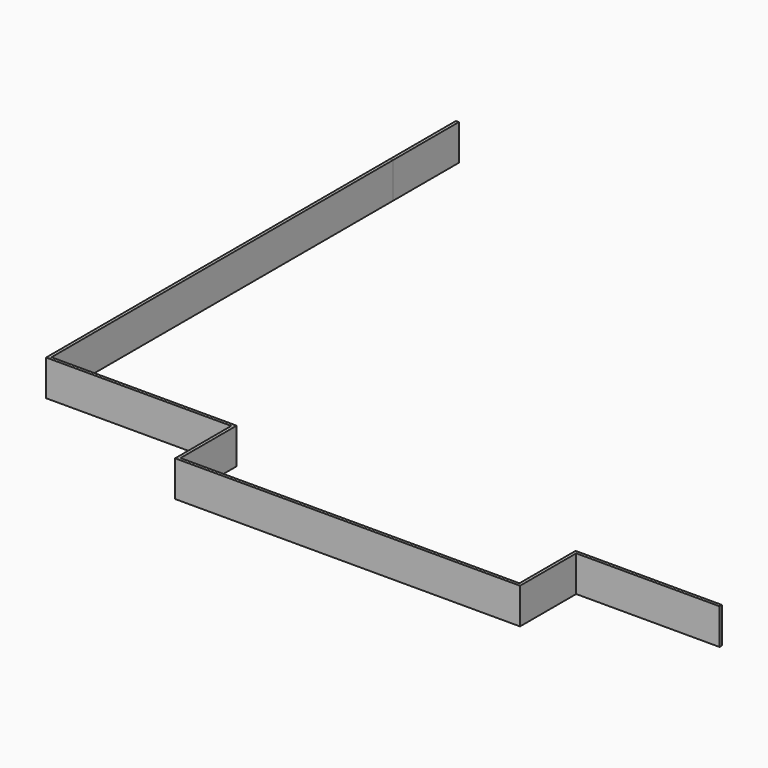
from build123d import *

# Parameters (mm, degrees)
F1_DEPTH  = 304.8
F3_DEPTH  = 304.8
F5_DEPTH  = 304.8
F7_DEPTH  = 304.8
F9_DEPTH  = 304.8
F11_DEPTH = 304.8
F12_W     = 25.4
F12_H     = 698.5
F13_DEPTH = 304.8


with BuildPart() as f1:
    # F0 (on Top) → F1 (new body)
    with BuildSketch(Plane.XY):
        Polygon((0, 3657.6), (0, 0), (25.4, 25.4), (25.4, 3657.6), align=None)
    extrude(amount=F1_DEPTH)


with BuildPart() as f3:
    # F2 (on Top) → F3 (new body)
    with BuildSketch(Plane.XY):
        Polygon((25.4, 25.4), (0, 0), (1574.8, 0), (1600.2, 25.4), align=None)
    extrude(amount=F3_DEPTH)


with BuildPart() as f5:
    # F4 (on Top) → F5 (new body)
    with BuildSketch(Plane.XY):
        Polygon((1600.2, -571.5), (1600.2, 25.4), (1574.8, 0), (1574.8, -596.9), align=None)
    extrude(amount=F5_DEPTH)


with BuildPart() as f7:
    # F6 (on Top) → F7 (new body)
    with BuildSketch(Plane.XY):
        Polygon((1600.2, -571.5), (1574.8, -596.9), (4508.5, -596.9), (4483.1, -571.5), align=None)
    extrude(amount=F7_DEPTH)


with BuildPart() as f9:
    # F8 (on Top) → F9 (new body)
    with BuildSketch(Plane.XY):
        Polygon((4483.1, -571.5), (4508.5, -596.9), (4508.5, 0), (4483.1, 25.4), align=None)
    extrude(amount=F9_DEPTH)


with BuildPart() as f11:
    # F10 (on Top) → F11 (new body)
    with BuildSketch(Plane.XY):
        Polygon((5727.7, 0), (5727.7, 25.4), (4483.1, 25.4), (4508.5, 0), align=None)
    extrude(amount=F11_DEPTH)


with BuildPart() as f13:
    # F12 (on Top) → F13 (new body)
    with BuildSketch(Plane.XY):
        with Locations((12.7, 4006.85)):
            Rectangle(F12_W, F12_H)
    extrude(amount=F13_DEPTH)


solid = Compound([f1.part, f3.part, f5.part, f7.part, f9.part, f11.part, f13.part])
